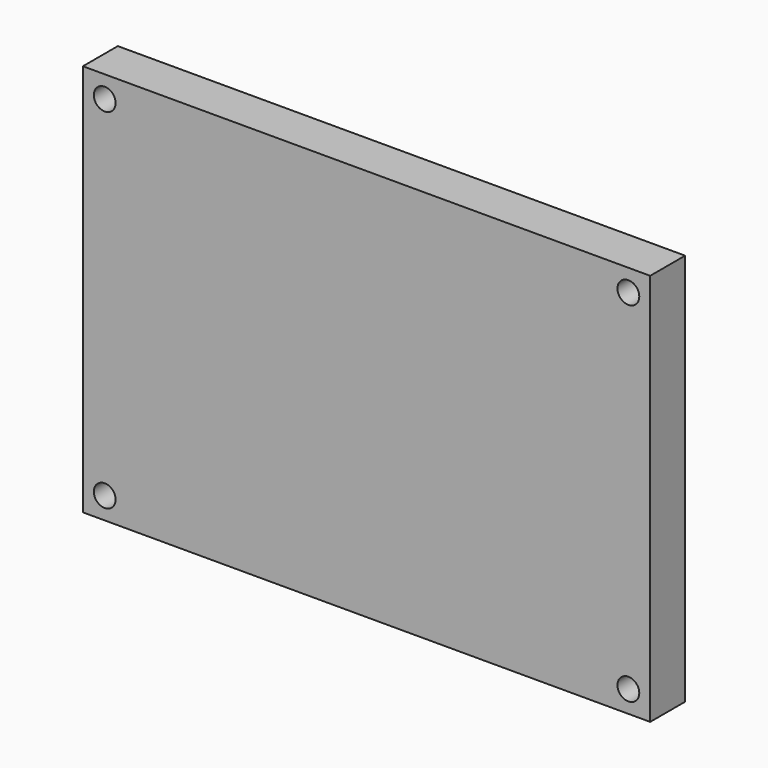
from build123d import *

# Parameters (mm, degrees)
F0_W     = 65
F0_H     = 45
F0_R     = 1.25
F1_DEPTH = 5
F2_DEPTH = 2.5


with BuildPart() as f1:
    # F0 (on Front) → F1 (new body)
    with BuildSketch(Plane.XZ):
        with Locations((32.5, 22.5)):
            Rectangle(F0_W, F0_H)
        with Locations((2.5, 2.5)):
            Circle(F0_R, mode=Mode.SUBTRACT)
        with Locations((62.5, 2.5)):
            Circle(F0_R, mode=Mode.SUBTRACT)
        with Locations((2.5, 42.5)):
            Circle(F0_R, mode=Mode.SUBTRACT)
        with Locations((62.5, 42.5)):
            Circle(F0_R, mode=Mode.SUBTRACT)
    extrude(amount=F1_DEPTH)

    # F0 (on Front) → F2 (join)
    with BuildSketch(Plane.XZ):
        with Locations((2.5, 42.5)):
            Circle(F0_R)
        with Locations((2.5, 2.5)):
            Circle(F0_R)
        with Locations((62.5, 2.5)):
            Circle(F0_R)
        with Locations((62.5, 42.5)):
            Circle(F0_R)
    extrude(amount=F2_DEPTH)


solid = f1.part
